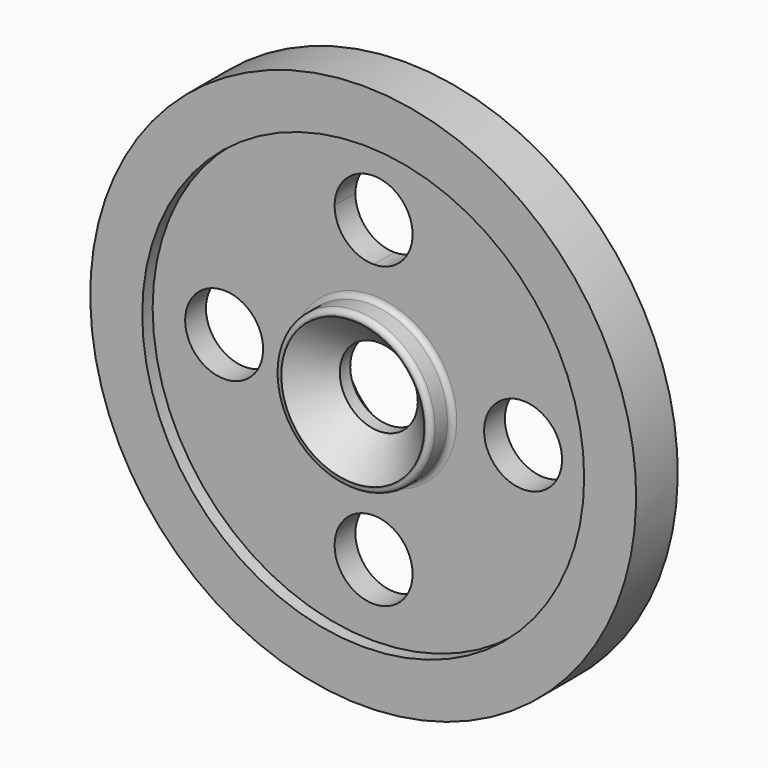
from build123d import *

# Parameters (mm, degrees)
F2_R     = 19.05
F3_DEPTH = 25.4
F4_R     = 2.54
F5_R     = 2.54
F6_SIZE  = 15.875


with BuildPart() as f1:
    # F0 (on Right) → F1 (revolve)
    with BuildSketch(Plane.YZ):
        Polygon((-19.05, 19.05), (0, 19.05), (19.05, 19.05), (19.05, 38.1), (6.35, 38.1), (6.35, 107.95), (12.7, 107.95), (12.7, 133.35), (0, 133.35), (-12.7, 133.35), (-12.7, 107.95), (-6.35, 107.95), (-6.35, 38.1), (-19.05, 38.1), align=None)
    revolve(axis=Axis((0, 9.525, 0), (0, 1, 0)))

    # F2 (on face) → F3 (cut)
    with BuildSketch(Plane(origin=(0, 6.35, 0), x_dir=(-1, 0, 0), z_dir=(0, 1, 0))):
        with Locations((-73.025, 0)):
            Circle(F2_R)
        with BuildLine():
            ThreePointArc((19.05, 73.025), (-13.470384, 86.495384), (0, 53.975))
            ThreePointArc((0, 53.975), (13.470384, 59.554616), (19.05, 73.025))
        make_face()
        with Locations((73.025, 0)):
            Circle(F2_R)
        with Locations((0, -73.025)):
            Circle(F2_R)
    extrude(amount=-F3_DEPTH, mode=Mode.SUBTRACT)

    # F4
    f4_edges = [f1.edges().sort_by_distance(p)[0] for p in [
        (0, 6.35, -38.1),
        (0, 19.05, -38.1),
        (0, 12.7, -107.95),
    ]]
    fillet(f4_edges, radius=F4_R)

    # F5
    f5_edges = [f1.edges().sort_by_distance(p)[0] for p in [
        (0, -6.35, -38.1),
        (0, -19.05, -38.1),
        (0, -12.7, 38.1),
    ]]
    fillet(f5_edges, radius=F5_R)

    # F6
    f6_edges = [f1.edges().sort_by_distance(p)[0] for p in [
        (0, 19.05, -19.05),
        (0, -19.05, -19.05),
    ]]
    chamfer(f6_edges, length=F6_SIZE)


solid = f1.part
